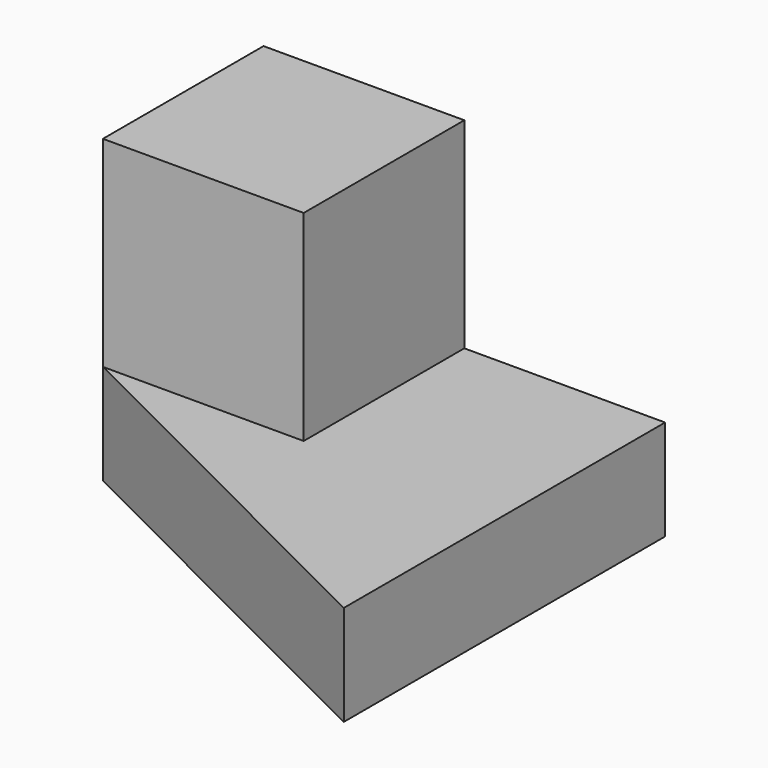
from build123d import *

# Parameters (mm, degrees)
F0_W     = 20
F0_H     = 20
F1_DEPTH = 10
F2_DEPTH = 30


with BuildPart() as f1:
    # F0 (on Top) → F1 (new body)
    with BuildSketch(Plane.XY):
        with Locations((-34.67327, 51.563778)):
            Rectangle(F0_W, F0_H)
        Polygon((-4.67327, 61.563778), (-24.67327, 61.563778), (-24.67327, 41.563778), (-44.67327, 41.563778), (-4.67327, 21.563778), align=None)
    extrude(amount=F1_DEPTH)

    # F0 (on Top) → F2 (join)
    with BuildSketch(Plane.XY):
        with Locations((-34.67327, 51.563778)):
            Rectangle(F0_W, F0_H)
    extrude(amount=F2_DEPTH)


solid = f1.part
